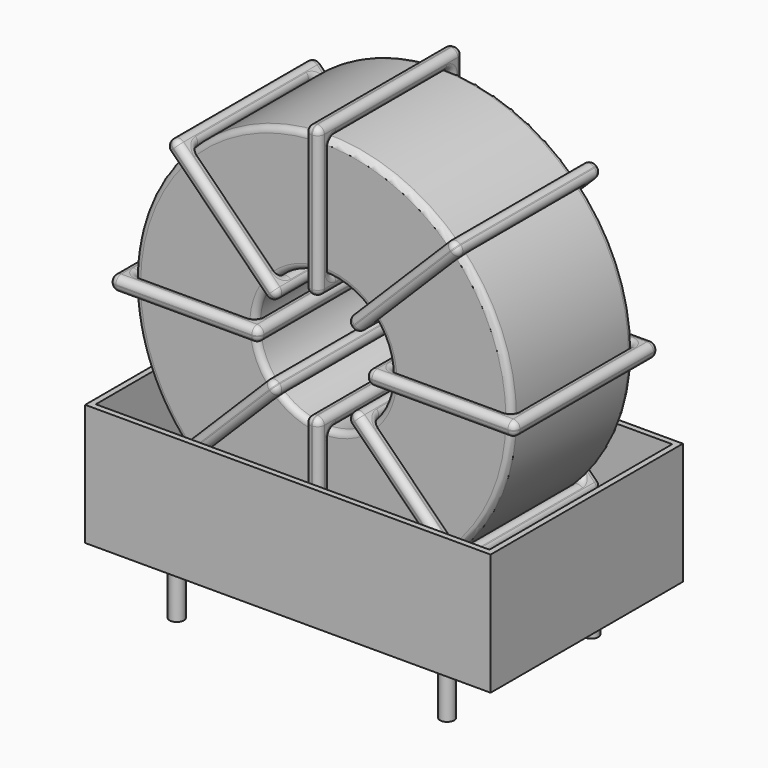
from build123d import *

# Parameters (mm, degrees)
SKETCH001_R   = 0.6
PAD001_DEPTH  = 5
SKETCH_R      = 15.945
SKETCH_R_2    = 5.715
PAD_DEPTH     = 6.42
FILLET_R      = 0.5
SKETCH003_W   = 12.63
SKETCH003_H   = 15.24
SKETCH003_W_2 = 10.23
SKETCH003_H_2 = 12.84
PAD002_DEPTH  = 0.6
FILLET001_R   = 0.564
SKETCH004_W   = 12.63
SKETCH004_H   = 15.24
SKETCH004_W_2 = 10.23
SKETCH004_H_2 = 12.84
PAD003_DEPTH  = 0.6
FILLET002_R   = 0.564
SKETCH005_W   = 12.63
SKETCH005_H   = 15.24
SKETCH005_W_2 = 10.23
SKETCH005_H_2 = 12.84
PAD004_DEPTH  = 0.6
FILLET003_R   = 0.564
SKETCH006_W   = 12.63
SKETCH006_H   = 15.24
SKETCH006_W_2 = 10.23
SKETCH006_H_2 = 12.84
PAD005_DEPTH  = 0.6
FILLET004_R   = 0.564
SKETCH007_W   = 34.29
SKETCH007_H   = 20.32
PAD006_DEPTH  = 0.5
SKETCH008_W   = 34.29
SKETCH008_H   = 20.32
SKETCH008_W_2 = 33.29
SKETCH008_H_2 = 19.32
PAD007_DEPTH  = 10.287


with BuildPart() as pad001:
    # Sketch001 → Pad001 (new body)
    with BuildSketch(Plane.XY.offset(0.75)):
        Circle(SKETCH001_R)
        with Locations((22.86, -15.24)):
            Circle(SKETCH001_R)
        with Locations((0, -15.24)):
            Circle(SKETCH001_R)
        with Locations((22.86, 0)):
            Circle(SKETCH001_R)
    extrude(amount=-PAD001_DEPTH)


with BuildPart() as fillet_body:
    # Sketch → Pad (new body, symmetric)
    with BuildSketch(Plane(origin=(11.43, -7.62, 0), x_dir=(1, 0, 0), z_dir=(0, -1, 0))):
        with Locations((0, 18.845)):
            Circle(SKETCH_R)
        with Locations((0, 18.845)):
            Circle(SKETCH_R_2, mode=Mode.SUBTRACT)
    extrude(amount=PAD_DEPTH, both=True)

    # Fillet
    fillet_edges = [fillet_body.edges().sort_by_distance(p)[0] for p in [
        (5.715, -14.04, 18.845),
        (-4.515, -14.04, 18.845),
        (-4.515, -1.2, 18.845),
    ]]
    fillet(fillet_edges, radius=FILLET_R)


with BuildPart() as fillet001:
    # Sketch003 → Pad002 (new body, symmetric)
    with BuildSketch(Plane(origin=(11.43, 0, 18.845), x_dir=(1, 0, 0), z_dir=(0, 0, -1))):
        with Locations((-10.83, 7.62)):
            Rectangle(SKETCH003_W, SKETCH003_H)
        with Locations((-10.83, 7.62)):
            Rectangle(SKETCH003_W_2, SKETCH003_H_2, mode=Mode.SUBTRACT)
        with Locations((10.83, 7.62)):
            Rectangle(SKETCH003_W, SKETCH003_H)
        with Locations((10.83, 7.62)):
            Rectangle(SKETCH003_W_2, SKETCH003_H_2, mode=Mode.SUBTRACT)
    extrude(amount=PAD002_DEPTH, both=True)

    # Fillet001
    fillet001_edges = [fillet001.edges().sort_by_distance(p)[0] for p in [
        (5.715, -14.04, 18.845),
        (5.715, -1.2, 18.845),
        (5.715, -7.62, 19.445),
        (5.715, -7.62, 18.245),
        (-5.715, -15.24, 18.845),
        (6.915, -15.24, 18.845),
        (0.6, -15.24, 19.445),
        (0.6, -15.24, 18.245),
        (6.915, 0, 18.845),
        (6.915, -7.62, 19.445),
        (6.915, -7.62, 18.245),
        (17.145, -14.04, 18.845),
        (27.375, -14.04, 18.845),
        (22.26, -14.04, 19.445),
        (22.26, -14.04, 18.245),
        (27.375, -1.2, 18.845),
        (27.375, -7.62, 19.445),
        (27.375, -7.62, 18.245),
        (15.945, -15.24, 18.845),
        (28.575, -15.24, 18.845),
        (22.26, -15.24, 19.445),
        (22.26, -15.24, 18.245),
        (28.575, 0, 18.845),
        (28.575, -7.62, 19.445),
        (28.575, -7.62, 18.245),
        (-4.515, -14.04, 18.845),
        (0.6, -14.04, 19.445),
        (0.6, -14.04, 18.245),
        (17.145, -1.2, 18.845),
        (17.145, -7.62, 19.445),
        (17.145, -7.62, 18.245),
        (22.26, -1.2, 19.445),
        (22.26, -1.2, 18.245),
        (15.945, 0, 18.845),
        (22.26, 0, 19.445),
        (22.26, 0, 18.245),
        (15.945, -7.62, 19.445),
        (15.945, -7.62, 18.245),
        (-5.715, 0, 18.845),
        (0.6, 0, 19.445),
        (0.6, 0, 18.245),
        (-5.715, -7.62, 19.445),
        (-5.715, -7.62, 18.245),
        (-4.515, -1.2, 18.845),
        (-4.515, -7.62, 19.445),
        (-4.515, -7.62, 18.245),
        (0.6, -1.2, 19.445),
        (0.6, -1.2, 18.245),
    ]]
    fillet(fillet001_edges, radius=FILLET001_R)


with BuildPart() as fillet002:
    # Sketch004 → Pad003 (new body, symmetric)
    with BuildSketch(Plane(origin=(11.43, 0, 18.845), x_dir=(0.707108, 0, 0.707106), z_dir=(0.707106, 0, -0.707108))):
        with Locations((-10.83, 7.62)):
            Rectangle(SKETCH004_W, SKETCH004_H)
        with Locations((-10.83, 7.62)):
            Rectangle(SKETCH004_W_2, SKETCH004_H_2, mode=Mode.SUBTRACT)
        with Locations((10.83, 7.62)):
            Rectangle(SKETCH004_W, SKETCH004_H)
        with Locations((10.83, 7.62)):
            Rectangle(SKETCH004_W_2, SKETCH004_H_2, mode=Mode.SUBTRACT)
    extrude(amount=PAD003_DEPTH, both=True)

    # Fillet002
    fillet002_edges = [fillet002.edges().sort_by_distance(p)[0] for p in [
        (7.38888, -14.04, 14.803889),
        (7.38888, -1.2, 14.803889),
        (6.964616, -7.62, 15.228154),
        (7.813144, -7.62, 14.379625),
        (-0.69336, -15.24, 6.721668),
        (-0.69336, 0, 6.721668),
        (-1.117623, -7.62, 7.145933),
        (-0.269096, -7.62, 6.297404),
        (8.237409, -15.24, 15.652417),
        (3.347761, 0, 11.611307),
        (4.196288, 0, 10.762778),
        (15.47112, -14.04, 22.886111),
        (22.704831, -14.04, 30.119805),
        (18.663712, -14.04, 26.927222),
        (19.512239, -14.04, 26.078693),
        (22.704831, -1.2, 30.119805),
        (22.280567, -7.62, 30.544069),
        (23.129094, -7.62, 29.69554),
        (14.622591, -15.24, 22.037583),
        (23.55336, -15.24, 30.968332),
        (18.663712, -15.24, 26.927222),
        (19.512239, -15.24, 26.078693),
        (23.55336, 0, 30.968332),
        (23.129096, -7.62, 31.392596),
        (23.977623, -7.62, 30.544067),
        (0.155169, -14.04, 7.570195),
        (3.347761, -14.04, 11.611307),
        (4.196288, -14.04, 10.762778),
        (15.47112, -1.2, 22.886111),
        (15.046856, -7.62, 23.310375),
        (15.895384, -7.62, 22.461846),
        (18.663712, -1.2, 26.927222),
        (19.512239, -1.2, 26.078693),
        (14.622591, 0, 22.037583),
        (18.663712, 0, 26.927222),
        (19.512239, 0, 26.078693),
        (14.198327, -7.62, 22.461848),
        (15.046854, -7.62, 21.613319),
        (8.237409, 0, 15.652417),
        (7.813146, -7.62, 16.076681),
        (8.661673, -7.62, 15.228152),
        (3.347761, -15.24, 11.611307),
        (4.196288, -15.24, 10.762778),
        (0.155169, -1.2, 7.570195),
        (-0.269094, -7.62, 7.99446),
        (0.579433, -7.62, 7.145931),
        (3.347761, -1.2, 11.611307),
        (4.196288, -1.2, 10.762778),
    ]]
    fillet(fillet002_edges, radius=FILLET002_R)


with BuildPart() as fillet003:
    # Sketch005 → Pad004 (new body, symmetric)
    with BuildSketch(Plane(origin=(11.43, 0, 18.845), x_dir=(0.707108, 0, -0.707106), z_dir=(-0.707106, 0, -0.707108))):
        with Locations((-10.83, 7.62)):
            Rectangle(SKETCH005_W, SKETCH005_H)
        with Locations((-10.83, 7.62)):
            Rectangle(SKETCH005_W_2, SKETCH005_H_2, mode=Mode.SUBTRACT)
        with Locations((10.83, 7.62)):
            Rectangle(SKETCH005_W, SKETCH005_H)
        with Locations((10.83, 7.62)):
            Rectangle(SKETCH005_W_2, SKETCH005_H_2, mode=Mode.SUBTRACT)
    extrude(amount=PAD004_DEPTH, both=True)

    # Fillet003
    fillet003_edges = [fillet003.edges().sort_by_distance(p)[0] for p in [
        (7.38888, -14.04, 22.886111),
        (7.38888, -1.2, 22.886111),
        (7.813144, -7.62, 23.310375),
        (6.964616, -7.62, 22.461846),
        (-0.69336, -15.24, 30.968332),
        (8.237409, -15.24, 22.037583),
        (4.196288, -15.24, 26.927222),
        (3.347761, -15.24, 26.078693),
        (8.237409, 0, 22.037583),
        (8.661673, -7.62, 22.461848),
        (7.813146, -7.62, 21.613319),
        (15.47112, -1.2, 14.803889),
        (15.47112, -14.04, 14.803889),
        (15.895384, -7.62, 15.228154),
        (15.046856, -7.62, 14.379625),
        (22.704831, -1.2, 7.570195),
        (19.512239, -1.2, 11.611307),
        (18.663712, -1.2, 10.762778),
        (14.622591, -15.24, 15.652417),
        (23.55336, -15.24, 6.721668),
        (19.512239, -15.24, 11.611307),
        (18.663712, -15.24, 10.762778),
        (23.55336, 0, 6.721668),
        (23.977623, -7.62, 7.145933),
        (23.129096, -7.62, 6.297404),
        (0.155169, -14.04, 30.119805),
        (4.196288, -14.04, 26.927222),
        (3.347761, -14.04, 26.078693),
        (22.704831, -14.04, 7.570195),
        (19.512239, -14.04, 11.611307),
        (18.663712, -14.04, 10.762778),
        (23.129094, -7.62, 7.99446),
        (22.280567, -7.62, 7.145931),
        (14.622591, 0, 15.652417),
        (19.512239, 0, 11.611307),
        (18.663712, 0, 10.762778),
        (15.046854, -7.62, 16.076681),
        (14.198327, -7.62, 15.228152),
        (-0.69336, 0, 30.968332),
        (4.196288, 0, 26.927222),
        (3.347761, 0, 26.078693),
        (-0.269096, -7.62, 31.392596),
        (-1.117623, -7.62, 30.544067),
        (0.155169, -1.2, 30.119805),
        (0.579433, -7.62, 30.544069),
        (-0.269094, -7.62, 29.69554),
        (4.196288, -1.2, 26.927222),
        (3.347761, -1.2, 26.078693),
    ]]
    fillet(fillet003_edges, radius=FILLET003_R)


with BuildPart() as fillet004:
    # Sketch006 → Pad005 (new body, symmetric)
    with BuildSketch(Plane(origin=(11.43, 0, 18.845), x_dir=(0, 0, 1), z_dir=(1, 0, 0))):
        with Locations((-10.83, 7.62)):
            Rectangle(SKETCH006_W, SKETCH006_H)
        with Locations((-10.83, 7.62)):
            Rectangle(SKETCH006_W_2, SKETCH006_H_2, mode=Mode.SUBTRACT)
        with Locations((10.83, 7.62)):
            Rectangle(SKETCH006_W, SKETCH006_H)
        with Locations((10.83, 7.62)):
            Rectangle(SKETCH006_W_2, SKETCH006_H_2, mode=Mode.SUBTRACT)
    extrude(amount=PAD005_DEPTH, both=True)

    # Fillet004
    fillet004_edges = [fillet004.edges().sort_by_distance(p)[0] for p in [
        (11.43, -14.04, 34.79),
        (11.43, -1.2, 34.79),
        (10.83, -7.62, 34.79),
        (12.03, -7.62, 34.79),
        (11.43, 0, 35.99),
        (11.43, 0, 23.36),
        (10.83, 0, 29.675),
        (12.03, 0, 29.675),
        (11.43, -15.24, 23.36),
        (10.83, -7.62, 23.36),
        (12.03, -7.62, 23.36),
        (11.43, -14.04, 2.9),
        (11.43, -14.04, 13.13),
        (10.83, -14.04, 8.015),
        (12.03, -14.04, 8.015),
        (11.43, -1.2, 13.13),
        (10.83, -7.62, 13.13),
        (12.03, -7.62, 13.13),
        (11.43, 0, 14.33),
        (11.43, 0, 1.7),
        (10.83, 0, 8.015),
        (12.03, 0, 8.015),
        (11.43, -15.24, 1.7),
        (10.83, -7.62, 1.7),
        (12.03, -7.62, 1.7),
        (11.43, -14.04, 24.56),
        (10.83, -14.04, 29.675),
        (12.03, -14.04, 29.675),
        (11.43, -1.2, 2.9),
        (10.83, -7.62, 2.9),
        (12.03, -7.62, 2.9),
        (10.83, -1.2, 8.015),
        (12.03, -1.2, 8.015),
        (11.43, -15.24, 14.33),
        (10.83, -15.24, 8.015),
        (12.03, -15.24, 8.015),
        (10.83, -7.62, 14.33),
        (12.03, -7.62, 14.33),
        (11.43, -15.24, 35.99),
        (10.83, -15.24, 29.675),
        (12.03, -15.24, 29.675),
        (10.83, -7.62, 35.99),
        (12.03, -7.62, 35.99),
        (11.43, -1.2, 24.56),
        (10.83, -7.62, 24.56),
        (12.03, -7.62, 24.56),
        (10.83, -1.2, 29.675),
        (12.03, -1.2, 29.675),
    ]]
    fillet(fillet004_edges, radius=FILLET004_R)


with BuildPart() as pad006:
    # Sketch007 → Pad006 (new body)
    with BuildSketch(Plane(origin=(11.43, 0, 0.5), x_dir=(1, 0, 0), z_dir=(0, 0, 1))):
        with Locations((0, -7.62)):
            Rectangle(SKETCH007_W, SKETCH007_H)
    extrude(amount=PAD006_DEPTH)


with BuildPart() as pad007:
    # Sketch008 → Pad007 (new body)
    with BuildSketch(Plane(origin=(11.43, 0, 0.5), x_dir=(1, 0, 0), z_dir=(0, 0, 1))):
        with Locations((0, -7.62)):
            Rectangle(SKETCH008_W, SKETCH008_H)
        with Locations((0, -7.62)):
            Rectangle(SKETCH008_W_2, SKETCH008_H_2, mode=Mode.SUBTRACT)
    extrude(amount=PAD007_DEPTH)


solid = Compound([pad001.part, fillet_body.part, fillet001.part, fillet002.part, fillet003.part, fillet004.part, pad006.part, pad007.part])
